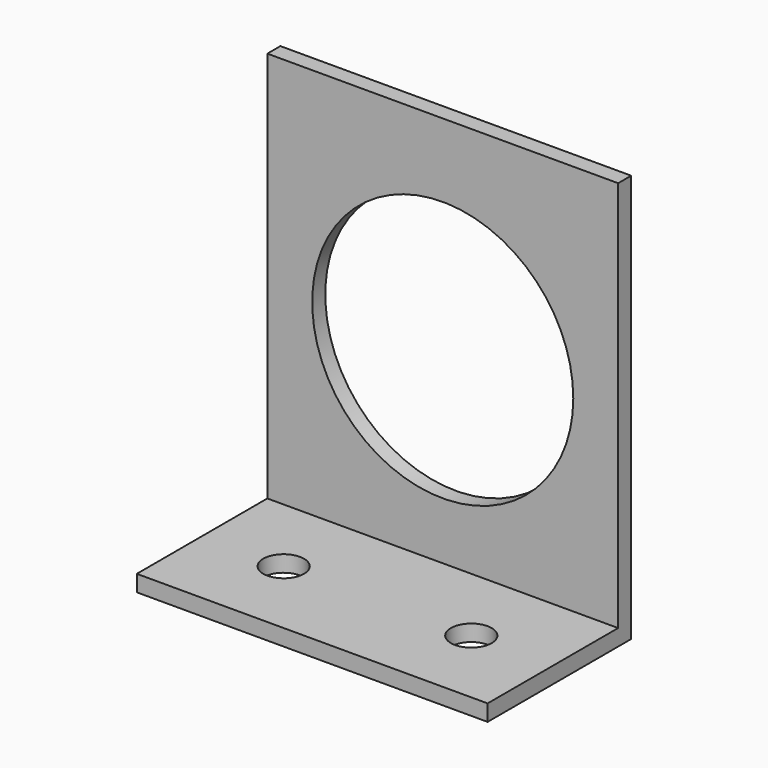
from build123d import *

# Parameters (mm, degrees)
F0_W     = 43
F0_H     = 50
F0_R     = 16
F1_DEPTH = 2
F2_W     = 43
F2_H     = 2
F3_DEPTH = 20
F5_D     = 5


with BuildPart() as f1:
    # F0 (on Front) → F1 (new body)
    with BuildSketch(Plane.XZ):
        Rectangle(F0_W, F0_H)
        Circle(F0_R, mode=Mode.SUBTRACT)
    extrude(amount=F1_DEPTH)

    # F2 (on face) → F3 (join)
    with BuildSketch(Plane.XZ.offset(2)):
        with Locations((0, -24)):
            Rectangle(F2_W, F2_H)
    extrude(amount=F3_DEPTH)

    # F5 (through all)
    with Locations(Plane(origin=(0, 0, -25), x_dir=(1, 0, 0), z_dir=(0, 0, -1))):
        with Locations((-11.5, 12), (11.5, 12)):
            Hole(F5_D / 2)


solid = f1.part
